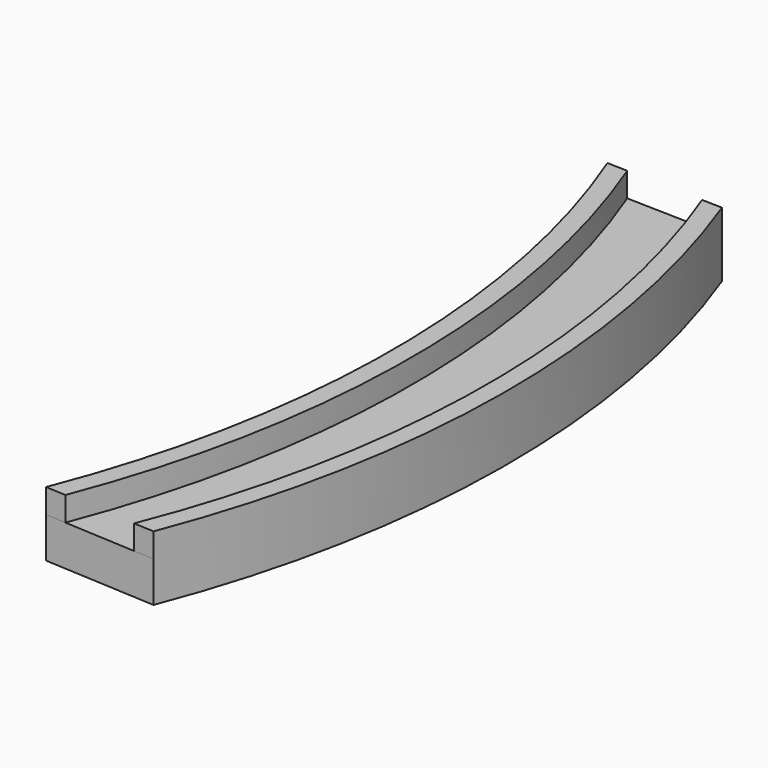
from build123d import *

# Parameters (mm, degrees)
F1_DEPTH = 5
F3_DEPTH = 3


with BuildPart() as f1:
    # F0 (on Top) → F1 (new body)
    with BuildSketch(Plane.XY):
        with BuildLine():
            ThreePointArc((4.749698, 45.312129), (12.944905, 1.994874), (4.749698, -41.32238))
            Line((4.749698, -41.32238), (18.618818, -42.082328))
            ThreePointArc((18.618818, -42.082328), (26.909553, 1.372471), (19.188782, 44.932149))
            Line((19.188782, 44.932149), (4.749698, 45.312129))
        make_face()
    extrude(amount=F1_DEPTH)

    # F2 (on face) → F3 (join)
    with BuildSketch(Plane.XY.offset(5)):
        with BuildLine():
            Line((4.749698, -41.32238), (7.245953, -41.459161))
            ThreePointArc((7.245953, -41.459161), (15.352182, 1.893331), (7.248832, 45.246362))
            Line((7.248832, 45.246362), (4.749698, 45.312129))
            ThreePointArc((4.749698, 45.312129), (12.944905, 1.994874), (4.749698, -41.32238))
        make_face()
        with BuildLine():
            ThreePointArc((16.689647, 44.997917), (24.557248, 1.473019), (16.122563, -41.945548))
            Line((16.122563, -41.945548), (18.618818, -42.082328))
            ThreePointArc((18.618818, -42.082328), (26.909553, 1.372471), (19.188782, 44.932149))
            Line((19.188782, 44.932149), (16.689647, 44.997917))
        make_face()
    extrude(amount=F3_DEPTH)


solid = f1.part
